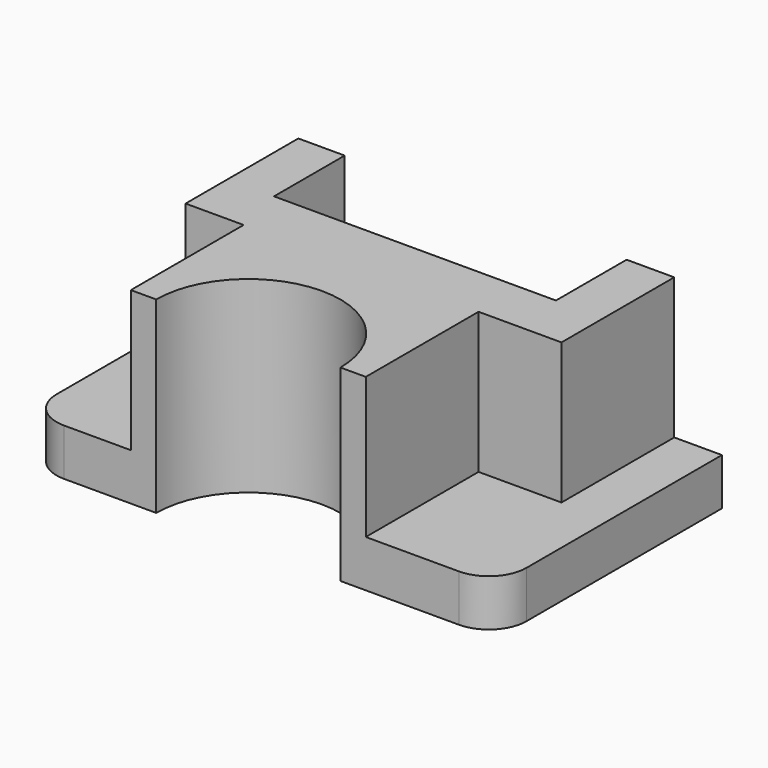
from build123d import *

# Parameters (mm, degrees)
F0_W      = 63.5
F0_H      = 38.1
F1_DEPTH  = 6.35
F2_W      = 50.8
F2_H      = 19.05
F3_DEPTH  = 19.05
F4_W      = 38.1
F4_H      = 11.938
F5_DEPTH  = 19.05
F6_R      = 5.08
F7_W      = 31.75
F7_H      = 19.05
F8_DEPTH  = 19.05
F9_R      = 12.446
F10_DEPTH = 25.401


with BuildPart() as f1:
    # F0 (on Top) → F1 (new body)
    with BuildSketch(Plane.XY):
        Rectangle(F0_W, F0_H)
    extrude(amount=F1_DEPTH)

    # F2 (on face) → F3 (join)
    with BuildSketch(Plane.XY.offset(6.35)):
        with Locations((-0.093382, 9.525)):
            Rectangle(F2_W, F2_H)
    extrude(amount=F3_DEPTH)

    # F4 (on face) → F5 (cut)
    with BuildSketch(Plane.XY.offset(25.4)):
        with Locations((-0.18145, 13.081)):
            Rectangle(F4_W, F4_H)
    extrude(amount=-F5_DEPTH, mode=Mode.SUBTRACT)

    # F6
    f6_edges = [f1.edges().sort_by_distance(p)[0] for p in [
        (-31.75, -19.05, 3.175),
        (31.75, -19.05, 3.175),
    ]]
    fillet(f6_edges, radius=F6_R)

    # F7 (on face) → F8 (join)
    with BuildSketch(Plane.XY.offset(6.35)):
        with Locations((-1.774265, -9.525)):
            Rectangle(F7_W, F7_H)
    extrude(amount=F8_DEPTH)

    # F9 (on face) → F10 (cut, through all)
    with BuildSketch(Plane.XY.offset(25.4)):
        with Locations((-1.774265, -19.05)):
            Circle(F9_R)
    extrude(amount=-F10_DEPTH, mode=Mode.SUBTRACT)


solid = f1.part
